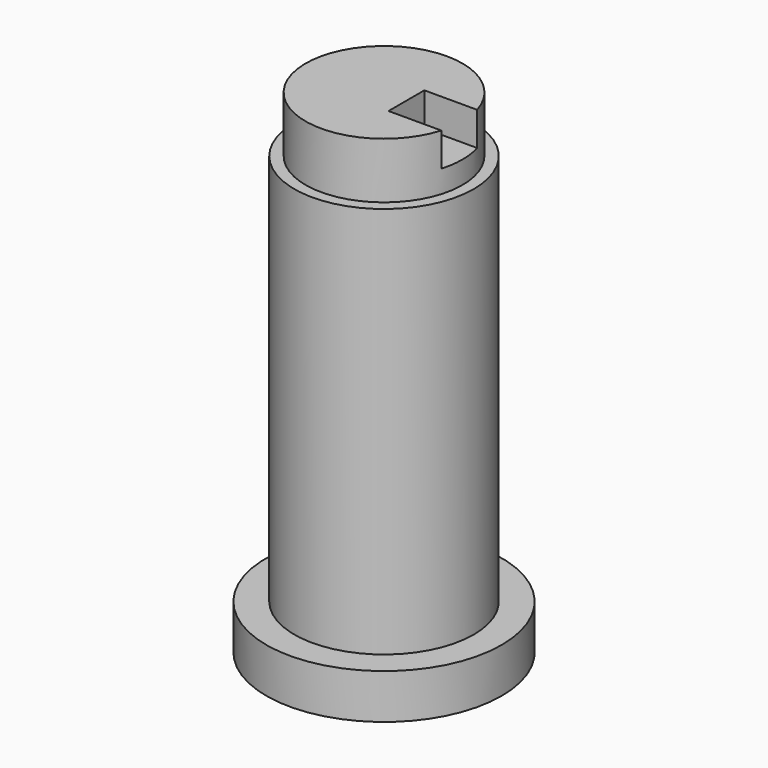
from build123d import *

# Parameters (mm, degrees)
F0_R     = 10.5
F1_DEPTH = 4
F2_R     = 8
F3_DEPTH = 39
F4_W     = 7
F4_H     = 5
F7_DEPTH = 3


with BuildPart() as f1:
    # F0 (on Top) → F1 (new body)
    with BuildSketch(Plane.XY):
        Circle(F0_R)
    extrude(amount=F1_DEPTH)

    # F2 (on Top) → F3 (join)
    with BuildSketch(Plane.XY):
        Circle(F2_R)
    extrude(amount=F3_DEPTH)

    # F4 (on Right) → F5 (revolve)
    with BuildSketch(Plane.YZ):
        with Locations((3.5, 41.5)):
            Rectangle(F4_W, F4_H)
    revolve(axis=Axis((0, 0, 41.5), (0, 0, -1)))

    # F6 (on face) → F7 (cut)
    with BuildSketch(Plane.XY.offset(44)):
        with BuildLine():
            Line((6.7082039325, 2), (2, 2))
            Line((2, 2), (2, -2.0000025367))
            Line((2, -2.0000025367), (6.7082031762, -2.0000025367))
            ThreePointArc((6.7082031762, -2.0000025367), (6.9266666671, -1.0105883847), (7, 0))
            ThreePointArc((7, 0), (6.9266668581, 1.010587075), (6.7082039325, 2))
        make_face()
    extrude(amount=-F7_DEPTH, mode=Mode.SUBTRACT)


solid = f1.part
